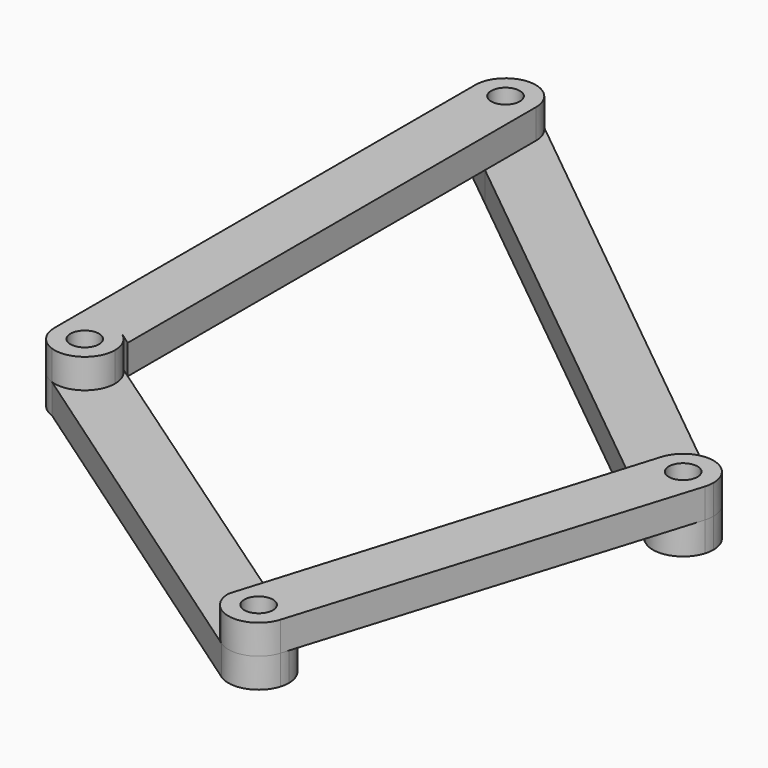
from build123d import *

# Parameters (mm, degrees)
F0_R     = 3.0849178634
F1_DEPTH = 6.35
F2_DEPTH = 6.35


with BuildPart() as f1:
    # F0 (on Top) → F1 (new body)
    with BuildSketch(Plane.XY):
        with BuildLine():
            ThreePointArc((-16.316703141, -117.7228137789), (-10.4812295121, -118.5211458672), (-6.387803424, -114.286296465))
            ThreePointArc((-6.387803424, -114.286296465), (-6.171117008, -113.3370927796), (-6.0983461646, -112.3661936893))
            ThreePointArc((-6.0983461646, -112.3661936893), (-6.8464855812, -109.3353793535), (-8.919033335, -107.0008357294))
            ThreePointArc((-8.919033335, -107.0008357294), (-13.8291124641, -105.9678228216), (-18.0165959077, -108.7320542033))
            Line((-18.0165959077, -108.7320542033), (-19.1247258839, -112.3661936893))
            ThreePointArc((-19.1247258839, -112.3661936893), (-18.3801623356, -115.3901964385), (-16.316703141, -117.7228137789))
        make_face()
        with Locations((-12.6115360242, -112.3661936893)):
            Circle(F0_R, mode=Mode.SUBTRACT)
        with BuildLine():
            Line((-8.919033335, -107.0008357294), (-16.0022815285, -102.1260607007))
            Line((-16.0022815285, -102.1260607007), (-18.0165959077, -108.7320542033))
            ThreePointArc((-18.0165959077, -108.7320542033), (-13.8291124641, -105.9678228216), (-8.919033335, -107.0008357294))
        make_face()
        with BuildLine():
            Line((-6.387803424, -114.286296465), (19.0490183589, -31.8365552445))
            ThreePointArc((19.0490183589, -31.8365552445), (14.7206225754, -36.1477717913), (8.7247524678, -34.9768149931))
            Line((8.7247524678, -34.9768149931), (5.3154160158, -32.2141477822))
            Line((5.3154160158, -32.2141477822), (-16.0022815285, -102.1260607007))
            Line((-16.0022815285, -102.1260607007), (-8.919033335, -107.0008357294))
            ThreePointArc((-8.919033335, -107.0008357294), (-6.8464855812, -109.3353793535), (-6.0983461646, -112.3661936893))
            ThreePointArc((-6.0983461646, -112.3661936893), (-6.171117008, -113.3370927796), (-6.387803424, -114.286296465))
        make_face()
        with BuildLine():
            ThreePointArc((19.0490183589, -31.8365552445), (19.2657047749, -30.8873515591), (19.3384756184, -29.9164524688))
            ThreePointArc((19.3384756184, -29.9164524688), (18.7044521111, -27.1134103447), (16.9258190496, -24.8560899444))
            ThreePointArc((16.9258190496, -24.8560899444), (10.919725754, -23.6882518284), (6.5952848208, -28.0167865871))
            ThreePointArc((6.5952848208, -28.0167865871), (6.5970851184, -31.8220124735), (8.7247524678, -34.9768149931))
            ThreePointArc((8.7247524678, -34.9768149931), (14.7206225754, -36.1477717913), (19.0490183589, -31.8365552445))
        make_face()
        with Locations((12.8252857587, -29.9164524688)):
            Circle(F0_R, mode=Mode.SUBTRACT)
        with BuildLine():
            ThreePointArc((8.7247524678, -34.9768149931), (6.5970851184, -31.8220124735), (6.5952848208, -28.0167865871))
            Line((6.5952848208, -28.0167865871), (5.3154160158, -32.2141477822))
            Line((5.3154160158, -32.2141477822), (8.7247524678, -34.9768149931))
        make_face()
    extrude(amount=F1_DEPTH)


with BuildPart() as f1b:
    # F0 (on Top) → F1, piece 2 (new body)
    with BuildSketch(Plane.XY):
        with BuildLine():
            ThreePointArc((-92.2206801264, -49.6716589821), (-98.9439971514, -49.2719664991), (-102.4263726753, -55.037016942))
            ThreePointArc((-102.4263726753, -55.037016942), (-101.2191601363, -58.814350237), (-98.0450335378, -61.1914344325))
            ThreePointArc((-98.0450335378, -61.1914344325), (-92.1358495207, -60.3429942627), (-89.399992956, -55.037016942))
            ThreePointArc((-89.399992956, -55.037016942), (-90.1481323727, -52.0062026063), (-92.2206801264, -49.6716589821))
        make_face()
        with Locations((-95.9131828157, -55.037016942)):
            Circle(F0_R, mode=Mode.SUBTRACT)
        with BuildLine():
            ThreePointArc((-100.0137161066, 53.1365777234), (-101.792349168, 55.3938981238), (-102.4263726753, 58.1969402478))
            Line((-102.4263726753, 58.1969402478), (-102.4263726753, -55.037016942))
            ThreePointArc((-102.4263726753, -55.037016942), (-98.9439971514, -49.2719664991), (-92.2206801264, -49.6716589821))
            Line((-92.2206801264, -49.6716589821), (-89.399992956, -51.6128891927))
            Line((-89.399992956, -51.6128891927), (-89.399992956, 44.536022939))
            Line((-89.399992956, 44.536022939), (-100.0137161066, 53.1365777234))
        make_face()
        with BuildLine():
            ThreePointArc((-89.399992956, 58.1969402478), (-90.0340164633, 60.9999823718), (-91.8126495247, 63.2573027721))
            ThreePointArc((-91.8126495247, 63.2573027721), (-98.7162249397, 64.0761066001), (-102.4263726753, 58.1969402478))
            ThreePointArc((-102.4263726753, 58.1969402478), (-101.792349168, 55.3938981238), (-100.0137161066, 53.1365777234))
            ThreePointArc((-100.0137161066, 53.1365777234), (-93.1101406917, 52.3177738954), (-89.399992956, 58.1969402478))
        make_face()
        with Locations((-95.9131828157, 58.1969402478)):
            Circle(F0_R, mode=Mode.SUBTRACT)
        with BuildLine():
            Line((-89.399992956, 44.536022939), (-89.399992956, 58.1969402478))
            ThreePointArc((-89.399992956, 58.1969402478), (-93.1101406917, 52.3177738954), (-100.0137161066, 53.1365777234))
            Line((-100.0137161066, 53.1365777234), (-89.399992956, 44.536022939))
        make_face()
    extrude(amount=F1_DEPTH)


with BuildPart() as f2:
    # F0 (on Top) → F2 (new body)
    with BuildSketch(Plane.XY):
        with BuildLine():
            ThreePointArc((-16.316703141, -117.7228137789), (-10.4812295121, -118.5211458672), (-6.387803424, -114.286296465))
            ThreePointArc((-6.387803424, -114.286296465), (-6.171117008, -113.3370927796), (-6.0983461646, -112.3661936893))
            ThreePointArc((-6.0983461646, -112.3661936893), (-6.8464855812, -109.3353793535), (-8.919033335, -107.0008357294))
            ThreePointArc((-8.919033335, -107.0008357294), (-13.8291124641, -105.9678228216), (-18.0165959077, -108.7320542033))
            Line((-18.0165959077, -108.7320542033), (-19.1247258839, -112.3661936893))
            ThreePointArc((-19.1247258839, -112.3661936893), (-18.3801623356, -115.3901964385), (-16.316703141, -117.7228137789))
        make_face()
        with Locations((-12.6115360242, -112.3661936893)):
            Circle(F0_R, mode=Mode.SUBTRACT)
        with BuildLine():
            Line((-98.0450335378, -61.1914344325), (-16.316703141, -117.7228137789))
            ThreePointArc((-16.316703141, -117.7228137789), (-18.3801623356, -115.3901964385), (-19.1247258839, -112.3661936893))
            ThreePointArc((-19.1247258839, -112.3661936893), (-18.8415369621, -110.4665278076), (-18.0165959077, -108.7320542033))
            Line((-18.0165959077, -108.7320542033), (-16.0022815285, -102.1260607007))
            Line((-16.0022815285, -102.1260607007), (-89.399992956, -51.6128891927))
            Line((-89.399992956, -51.6128891927), (-89.399992956, -55.037016942))
            ThreePointArc((-89.399992956, -55.037016942), (-92.1358495207, -60.3429942627), (-98.0450335378, -61.1914344325))
        make_face()
        with BuildLine():
            Line((-8.919033335, -107.0008357294), (-16.0022815285, -102.1260607007))
            Line((-16.0022815285, -102.1260607007), (-18.0165959077, -108.7320542033))
            ThreePointArc((-18.0165959077, -108.7320542033), (-13.8291124641, -105.9678228216), (-8.919033335, -107.0008357294))
        make_face()
        with BuildLine():
            ThreePointArc((-18.0165959077, -108.7320542033), (-18.8415369621, -110.4665278076), (-19.1247258839, -112.3661936893))
            Line((-19.1247258839, -112.3661936893), (-18.0165959077, -108.7320542033))
        make_face()
        with BuildLine():
            ThreePointArc((-92.2206801264, -49.6716589821), (-98.9439971514, -49.2719664991), (-102.4263726753, -55.037016942))
            ThreePointArc((-102.4263726753, -55.037016942), (-101.2191601363, -58.814350237), (-98.0450335378, -61.1914344325))
            ThreePointArc((-98.0450335378, -61.1914344325), (-92.1358495207, -60.3429942627), (-89.399992956, -55.037016942))
            ThreePointArc((-89.399992956, -55.037016942), (-90.1481323727, -52.0062026063), (-92.2206801264, -49.6716589821))
        make_face()
        with Locations((-95.9131828157, -55.037016942)):
            Circle(F0_R, mode=Mode.SUBTRACT)
        with BuildLine():
            Line((-89.399992956, -55.037016942), (-89.399992956, -51.6128891927))
            Line((-89.399992956, -51.6128891927), (-92.2206801264, -49.6716589821))
            ThreePointArc((-92.2206801264, -49.6716589821), (-90.1481323727, -52.0062026063), (-89.399992956, -55.037016942))
        make_face()
    extrude(amount=-F2_DEPTH)


with BuildPart() as f2b:
    # F0 (on Top) → F2, piece 2 (new body)
    with BuildSketch(Plane.XY):
        with BuildLine():
            ThreePointArc((6.5952848208, -28.0167865871), (10.919725754, -23.6882518284), (16.9258190496, -24.8560899444))
            Line((16.9258190496, -24.8560899444), (-91.8126495247, 63.2573027721))
            ThreePointArc((-91.8126495247, 63.2573027721), (-90.0340164633, 60.9999823718), (-89.399992956, 58.1969402478))
            Line((-89.399992956, 58.1969402478), (-89.399992956, 44.536022939))
            Line((-89.399992956, 44.536022939), (5.3154160158, -32.2141477822))
            Line((5.3154160158, -32.2141477822), (6.5952848208, -28.0167865871))
        make_face()
        with BuildLine():
            ThreePointArc((19.0490183589, -31.8365552445), (19.2657047749, -30.8873515591), (19.3384756184, -29.9164524688))
            ThreePointArc((19.3384756184, -29.9164524688), (18.7044521111, -27.1134103447), (16.9258190496, -24.8560899444))
            ThreePointArc((16.9258190496, -24.8560899444), (10.919725754, -23.6882518284), (6.5952848208, -28.0167865871))
            ThreePointArc((6.5952848208, -28.0167865871), (6.5970851184, -31.8220124735), (8.7247524678, -34.9768149931))
            ThreePointArc((8.7247524678, -34.9768149931), (14.7206225754, -36.1477717913), (19.0490183589, -31.8365552445))
        make_face()
        with Locations((12.8252857587, -29.9164524688)):
            Circle(F0_R, mode=Mode.SUBTRACT)
        with BuildLine():
            ThreePointArc((8.7247524678, -34.9768149931), (6.5970851184, -31.8220124735), (6.5952848208, -28.0167865871))
            Line((6.5952848208, -28.0167865871), (5.3154160158, -32.2141477822))
            Line((5.3154160158, -32.2141477822), (8.7247524678, -34.9768149931))
        make_face()
        with BuildLine():
            Line((-89.399992956, 44.536022939), (-89.399992956, 58.1969402478))
            ThreePointArc((-89.399992956, 58.1969402478), (-93.1101406917, 52.3177738954), (-100.0137161066, 53.1365777234))
            Line((-100.0137161066, 53.1365777234), (-89.399992956, 44.536022939))
        make_face()
        with BuildLine():
            ThreePointArc((-89.399992956, 58.1969402478), (-90.0340164633, 60.9999823718), (-91.8126495247, 63.2573027721))
            ThreePointArc((-91.8126495247, 63.2573027721), (-98.7162249397, 64.0761066001), (-102.4263726753, 58.1969402478))
            ThreePointArc((-102.4263726753, 58.1969402478), (-101.792349168, 55.3938981238), (-100.0137161066, 53.1365777234))
            ThreePointArc((-100.0137161066, 53.1365777234), (-93.1101406917, 52.3177738954), (-89.399992956, 58.1969402478))
        make_face()
        with Locations((-95.9131828157, 58.1969402478)):
            Circle(F0_R, mode=Mode.SUBTRACT)
    extrude(amount=-F2_DEPTH)


solid = Compound([f1.part, f1b.part, f2.part, f2b.part])
